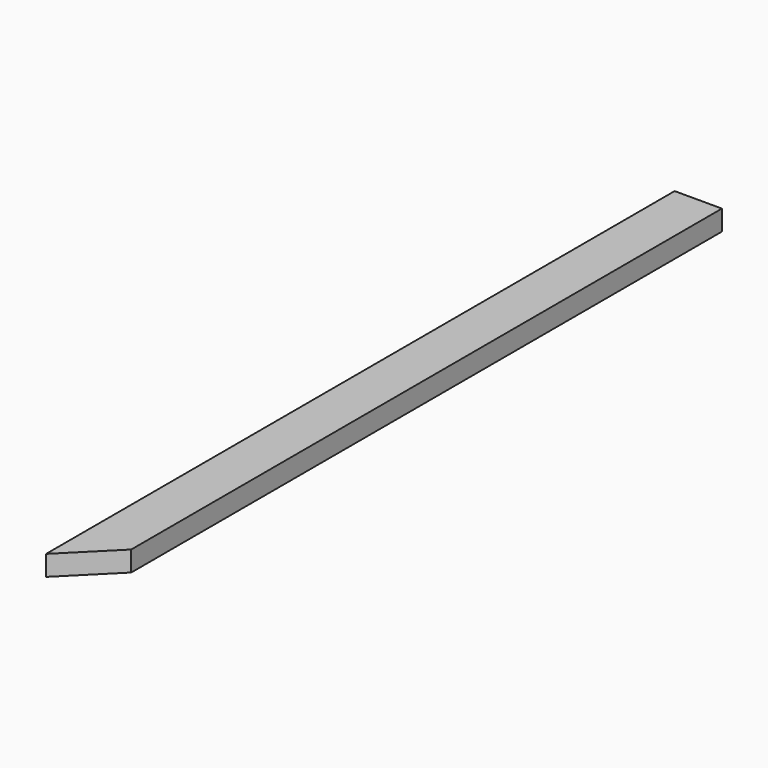
from build123d import *

# Parameters (mm, degrees)
F0_W     = 88.9
F0_H     = 38.1
F1_DEPTH = 1476.46898
F3_DEPTH = 104.14


with BuildPart() as f1:
    # F0 (on Front) → F1 (new body)
    with BuildSketch(Plane.XZ):
        with Locations((44.45, 19.05)):
            Rectangle(F0_W, F0_H)
    extrude(amount=F1_DEPTH)

    # F2 (on face) → F3 (cut)
    with BuildSketch(Plane.XY.offset(38.1)):
        Polygon((88.9, -1387.56898), (0, -1476.46898), (88.9, -1476.46898), align=None)
    extrude(amount=-F3_DEPTH, mode=Mode.SUBTRACT)


solid = f1.part
